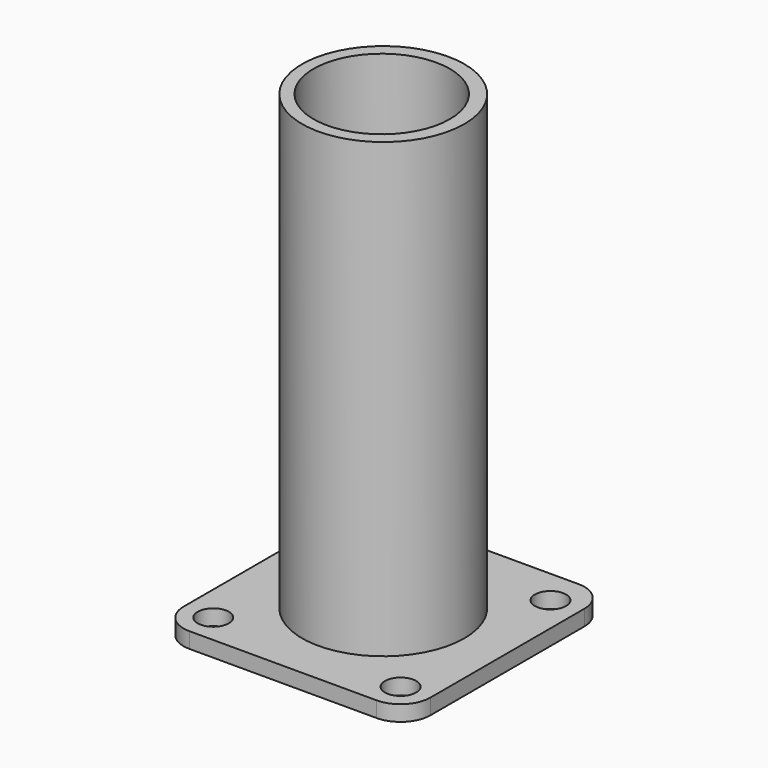
from build123d import *

# Parameters (mm, degrees)
SKETCH_R     = 5
PAD_DEPTH    = 5
SKETCH002_R  = 26
PAD001_DEPTH = 150
SKETCH001_R  = 21.829625
POCKET_DEPTH = 150


with BuildPart() as part:
    # Sketch → Pad (new body)
    with BuildSketch(Plane.XY):
        with BuildLine():
            Line((-29.76506, -39.750771), (30.181718, -39.750771))
            ThreePointArc((30.181718, -39.750771), (36.954256, -36.945494), (39.759533, -30.172956))
            Line((39.759533, -30.172956), (39.759533, 31.470314))
            ThreePointArc((39.759533, 31.470314), (36.97817, 38.185117), (30.263367, 40.96648))
            Line((30.263367, 40.96648), (-29.735014, 40.96648))
            ThreePointArc((-29.735014, 40.96648), (-36.449803, 38.185124), (-39.231159, 31.470335))
            Line((-39.231159, 31.470335), (-39.231159, -30.284672))
            ThreePointArc((-39.231159, -30.284672), (-36.458603, -36.978215), (-29.76506, -39.750771))
        make_face()
        with Locations((-29.735014, 29.743769)):
            Circle(SKETCH_R, mode=Mode.SUBTRACT)
        with Locations((30.263367, 29.743769)):
            Circle(SKETCH_R, mode=Mode.SUBTRACT)
        with Locations((-29.735014, -30.254622)):
            Circle(SKETCH_R, mode=Mode.SUBTRACT)
        with Locations((30.263367, -30.254622)):
            Circle(SKETCH_R, mode=Mode.SUBTRACT)
    extrude(amount=PAD_DEPTH)

    # Sketch002 → Pad001 (join)
    with BuildSketch(Plane.XY):
        with Locations((0.332326, 0.20453)):
            Circle(SKETCH002_R)
    extrude(amount=PAD001_DEPTH)

    # Sketch001 (on Face13 of Pad) → Pocket (cut)
    with BuildSketch(Plane(origin=(0, 0, 0), x_dir=(1, 0, 0), z_dir=(0, 0, -1))):
        Circle(SKETCH001_R)
    extrude(amount=-POCKET_DEPTH, mode=Mode.SUBTRACT)


solid = part.part
